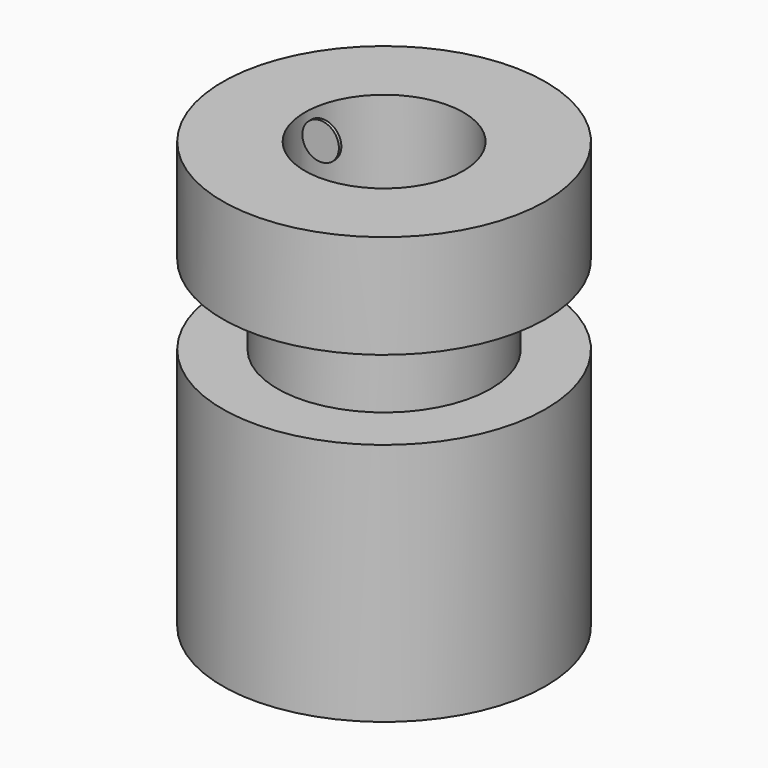
from build123d import *

# Parameters (mm, degrees)
F3_DEPTH = 0.05


with BuildPart() as f1:
    # F0 (on Front) → F1 (revolve)
    with BuildSketch(Plane.XZ):
        Polygon((2.65, 7), (1.3, 7), (1.3, 0), (2.65, 0), (2.65, 4), (1.75, 4), (1.75, 5.3), (2.65, 5.3), align=None)
    revolve(axis=Axis((0, 0, 3.656685), (0, 0, 1)))

    # F2 (on Front) → F3 (join)
    with BuildSketch(Plane.XZ):
        with BuildLine():
            ThreePointArc((-1.001325, 7), (-1.213457, 6.487868), (-0.701325, 6.7))
            ThreePointArc((-0.701325, 6.7), (-0.789192, 6.912132), (-1.001325, 7))
        make_face()
    extrude(amount=F3_DEPTH)


solid = f1.part
